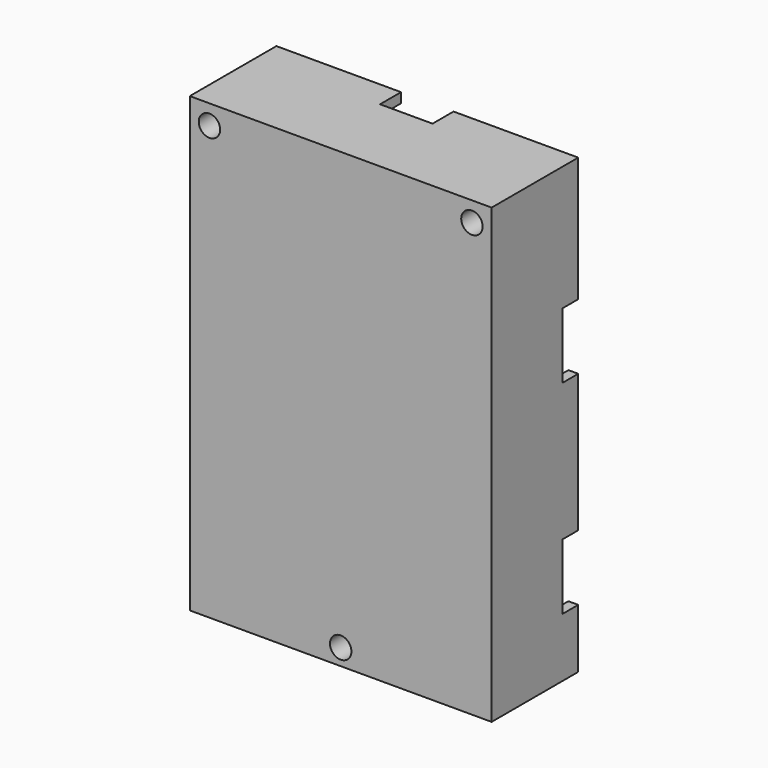
from build123d import *

# Parameters (mm, degrees)
F8_DEPTH  = 16.5
F2_W      = 43
F2_H      = 66
F9_DEPTH  = 15
F4_W      = 6
F4_H      = 6
F4_H_2    = 5
F10_DEPTH = 16.5
F5_W      = 8
F5_H      = 6
F5_W_2    = 6
F5_H_2    = 8
F11_DEPTH = 4
F6_W      = 6
F6_H      = 10
F12_DEPTH = 3
F7_R      = 1.63195
F13_DEPTH = 16.501


with BuildPart() as f8:
    # F1 (on Front) → F8 (new body)
    with BuildSketch(Plane.XZ):
        Polygon((22.625, -32.5), (22.625, -24.5), (22.625, 36.5), (-23.375, 36.5), (-23.375, -32.5), align=None)
    extrude(amount=F8_DEPTH)

    # F2 (on Front) → F9 (cut)
    with BuildSketch(Plane.XZ):
        with Locations((-0.375, 2)):
            Rectangle(F2_W, F2_H)
    extrude(amount=F9_DEPTH, mode=Mode.SUBTRACT)

    # F4 (on Front) → F10 (join, through all)
    with BuildSketch(Plane.XZ):
        with Locations((-20.375, 33.5)):
            Rectangle(F4_W, F4_H)
        with Locations((19.625, 33.5)):
            Rectangle(F4_W, F4_H)
        with Locations((-0.375, -30)):
            Rectangle(F4_W, F4_H_2)
    extrude(amount=F10_DEPTH)

    # F5 (on Front) → F11 (cut)
    with BuildSketch(Plane.XZ):
        with Locations((-0.375, 33.5)):
            Rectangle(F5_W, F5_H)
        with Locations((-22.875, -3)):
            Rectangle(F5_W_2, F5_H_2)
    extrude(amount=F11_DEPTH, mode=Mode.SUBTRACT)

    # F6 (on Front) → F12 (cut)
    with BuildSketch(Plane.XZ):
        with Locations((-22.875, 12.5)):
            Rectangle(F6_W, F6_H)
        with Locations((-22.875, -18.5)):
            Rectangle(F6_W, F6_H)
        with Locations((22.125, 12.5)):
            Rectangle(F6_W, F6_H)
        with Locations((22.125, -18.5)):
            Rectangle(F6_W, F6_H)
    extrude(amount=F12_DEPTH, mode=Mode.SUBTRACT)

    # F7 (on Front) → F13 (cut, through all)
    with BuildSketch(Plane.XZ):
        with Locations((-0.375, -30)):
            Circle(F7_R)
        with Locations((-20.375, 33.5)):
            Circle(F7_R)
        with Locations((19.625, 33.5)):
            Circle(F7_R)
    extrude(amount=F13_DEPTH, mode=Mode.SUBTRACT)


solid = f8.part
